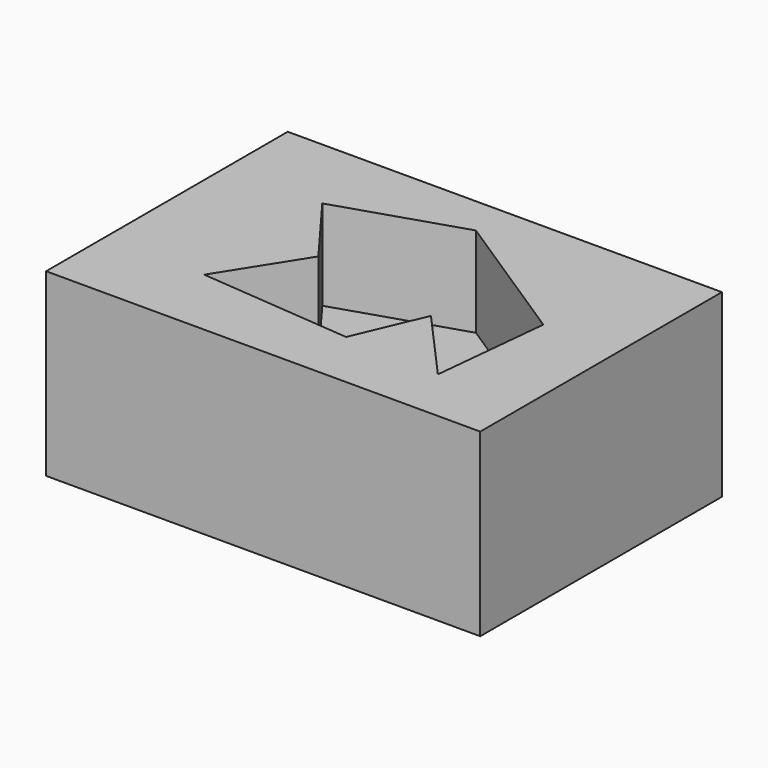
from build123d import *

# Parameters (mm, degrees)
F0_W     = 120.483875
F0_H     = 83.830651
F1_DEPTH = 50
F3_DEPTH = 25


with BuildPart() as f1:
    # F0 (on Top) → F1 (new body)
    with BuildSketch(Plane.XY):
        with Locations((-0.544355, 6.169355)):
            Rectangle(F0_W, F0_H)
    extrude(amount=F1_DEPTH)

    # F2 (on face) → F3 (cut)
    with BuildSketch(Plane.XY.offset(50)):
        Polygon((-19.05242, 6.532258), (-33.024196, -15.60484), (9.254033, -19.233871), (17.419355, 0), (35.745967, -20.504033), (39.012097, 11.975806), (0, 37.379034), (-33.931453, 26.491936), align=None)
    extrude(amount=-F3_DEPTH, mode=Mode.SUBTRACT)


solid = f1.part
